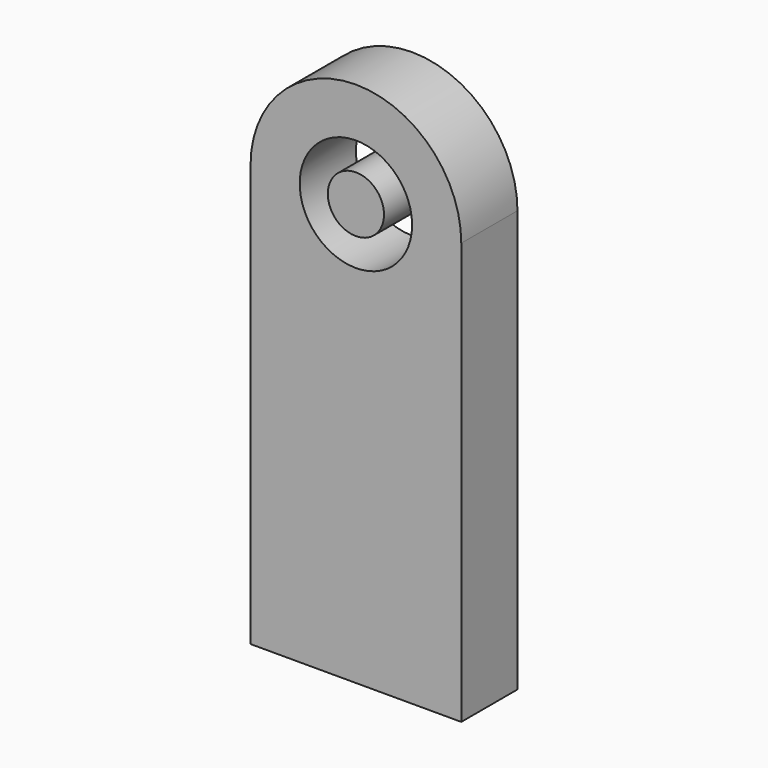
from build123d import *

# Parameters (mm, degrees)
F0_R     = 4
F0_R_2   = 2
F1_DEPTH = 5


with BuildPart() as f1:
    # F0 (on Front) → F1 (new body)
    with BuildSketch(Plane.XZ):
        with BuildLine():
            Line((0, 30), (0, 0))
            Line((0, 0), (15, 0))
            Line((15, 0), (15, 30))
            ThreePointArc((15, 30), (7.5, 37.5), (0, 30))
        make_face()
        with Locations((7.5, 30)):
            Circle(F0_R, mode=Mode.SUBTRACT)
        with Locations((7.5, 30)):
            Circle(F0_R_2)
    extrude(amount=F1_DEPTH)


solid = f1.part
